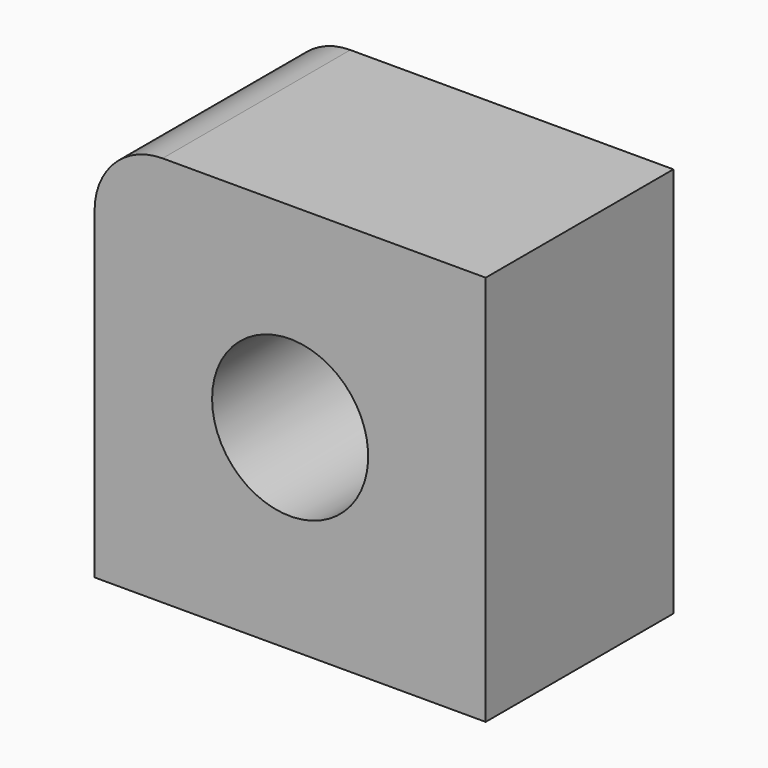
from build123d import *

# Parameters (mm, degrees)
F0_W     = 127
F0_H     = 76.2
F1_DEPTH = 63.5
F2_R     = 22.075569
F3_R     = 25.34667
F4_DEPTH = 76.201


with BuildPart() as f1:
    # F0 (on Top) → F1 (new body, symmetric)
    with BuildSketch(Plane.XY):
        Rectangle(F0_W, F0_H)
    extrude(amount=F1_DEPTH, both=True)

    # F2
    f2_edges = [f1.edges().sort_by_distance(p)[0] for p in [
        (-63.5, 0, 63.5),
    ]]
    fillet(f2_edges, radius=F2_R)

    # F3 (on face) → F4 (cut, through all)
    with BuildSketch(Plane(origin=(0, 38.1, 0), x_dir=(-1, 0, 0), z_dir=(0, 1, 0))):
        Circle(F3_R)
    extrude(amount=-F4_DEPTH, mode=Mode.SUBTRACT)


solid = f1.part
